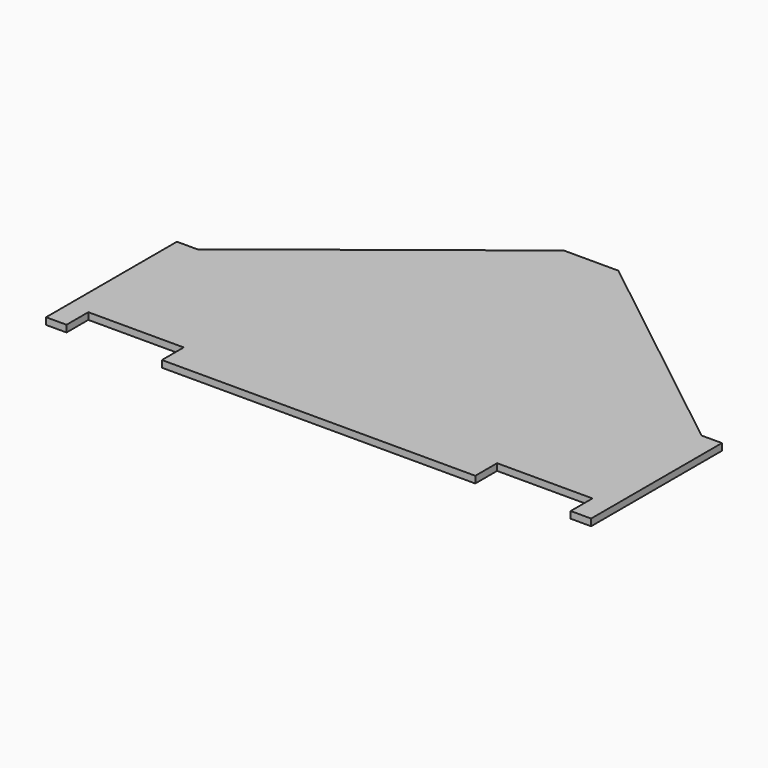
from build123d import *

# Parameters (mm, degrees)
F1_DEPTH = 12.7


with BuildPart() as f1:
    # F0 (on Top) → F1 (new body)
    with BuildSketch(Plane.XY):
        Polygon((-506.262004, 254), (-506.262004, -50.8), (-468.162004, -50.8), (-468.162004, 0), (-290.362004, 0), (-290.362004, -50.8), (293.837996, -50.8), (293.837996, 0), (471.637996, 0), (471.637996, -50.8), (509.737996, -50.8), (509.737996, 254), (471.637996, 254), (52.537996, 584.2), (-49.062004, 584.2), (-468.162004, 254), align=None)
    extrude(amount=F1_DEPTH)


solid = f1.part
